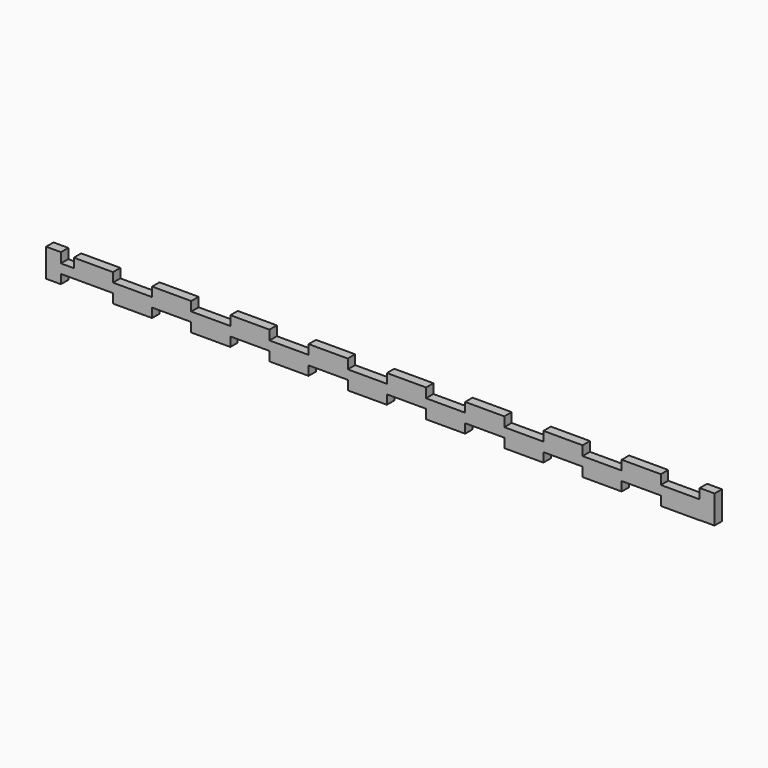
from build123d import *

# Parameters (mm, degrees)
F0_W     = 12.7
F0_H     = 3.0875
F0_H_2   = 3
F0_H_3   = 2.9125
F0_H_4   = 0.0875
F0_W_2   = 4.8
F0_H_5   = 2.9624759726
F0_W_3   = 4.2
F0_H_6   = 3.2125240274
F0_W_4   = 4.716
F0_W_5   = 0.0767822428
F0_H_7   = 2.9324562186
F1_DEPTH = 3


with BuildPart() as f1:
    # F0 (on Front) → F1 (new body)
    with BuildSketch(Plane.XZ):
        with Locations((84.692, 3.04375)):
            Rectangle(F0_W, F0_H)
        with Locations((33.892, 3.04375)):
            Rectangle(F0_W, F0_H)
        with Locations((-16.908, 3.04375)):
            Rectangle(F0_W, F0_H)
        with Locations((-42.308, 3.04375)):
            Rectangle(F0_W, F0_H)
        with Locations((-67.708, 3)):
            Rectangle(F0_W, F0_H_2)
        with Locations((59.292, 3.04375)):
            Rectangle(F0_W, F0_H)
        with Locations((-93.108, 0)):
            Rectangle(F0_W, F0_H_2)
        with Locations((-93.108, 3)):
            Rectangle(F0_W, F0_H_2)
        with Locations((84.692, 0.04375)):
            Rectangle(F0_W, F0_H_3)
        with Locations((-55.008, -3)):
            Rectangle(F0_W, F0_H_2)
        with Locations((-42.308, -1.45625)):
            Rectangle(F0_W, F0_H_4)
        with Locations((-80.408, 0)):
            Rectangle(F0_W, F0_H_2)
        with Locations((46.592, -3)):
            Rectangle(F0_W, F0_H_2)
        with Locations((-80.408, -3)):
            Rectangle(F0_W, F0_H_2)
        Polygon((52.942, 1.5), (40.242, 1.5), (40.242, -1.4125), (40.242, -1.5), (52.942, -1.5), (52.942, -1.4125), align=None)
        with Locations((-42.308, 0.04375)):
            Rectangle(F0_W, F0_H_3)
        with Locations((59.292, 0.04375)):
            Rectangle(F0_W, F0_H_3)
        with Locations((-16.908, -1.45625)):
            Rectangle(F0_W, F0_H_4)
        Polygon((-48.658, 1.5), (-61.358, 1.5), (-61.358, -1.5), (-48.658, -1.5), (-48.658, -1.4125), align=None)
        Polygon((78.342, 1.5), (65.642, 1.5), (65.642, -1.4125), (65.642, -1.5), (78.342, -1.5), (78.342, -1.4125), align=None)
        Polygon((103.6652177572, 1.5), (91.042, 1.5), (91.042, -1.4125), (91.042, -1.5), (103.6652177572, -1.5), align=None)
        with Locations((71.992, -3)):
            Rectangle(F0_W, F0_H_2)
        Polygon((103.6652177572, -1.5), (91.042, -1.5), (91.042, -4.5), (103.742, -4.5), (103.742, -4.4324562186), (103.6652177572, -4.4324562186), align=None)
        with Locations((21.192, -3)):
            Rectangle(F0_W, F0_H_2)
        with Locations((8.492, -1.45625)):
            Rectangle(F0_W, F0_H_4)
        with Locations((84.692, -1.45625)):
            Rectangle(F0_W, F0_H_4)
        Polygon((27.542, 1.5), (14.842, 1.5), (14.842, -1.4125), (14.842, -1.5), (27.542, -1.5), (27.542, -1.4125), align=None)
        with Locations((33.892, 0.04375)):
            Rectangle(F0_W, F0_H_3)
        with Locations((8.492, 0.04375)):
            Rectangle(F0_W, F0_H_3)
        Polygon((-23.258, 1.5), (-35.958, 1.5), (-35.958, -1.4125), (-35.958, -1.5), (-23.258, -1.5), (-23.258, -1.4125), align=None)
        with Locations((59.292, -1.45625)):
            Rectangle(F0_W, F0_H_4)
        with Locations((-29.608, -3)):
            Rectangle(F0_W, F0_H_2)
        with Locations((8.492, 3.04375)):
            Rectangle(F0_W, F0_H)
        with Locations((-16.908, 0.04375)):
            Rectangle(F0_W, F0_H_3)
        with Locations((-67.708, 0)):
            Rectangle(F0_W, F0_H_2)
        with Locations((33.892, -1.45625)):
            Rectangle(F0_W, F0_H_4)
        with Locations((-106.058, 0)):
            Rectangle(F0_W_2, F0_H_2)
        with Locations((-106.058, -2.9812379863)):
            Rectangle(F0_W_2, F0_H_5)
        with Locations((-4.208, -3)):
            Rectangle(F0_W, F0_H_2)
        with Locations((-101.558, 0)):
            Rectangle(F0_W_3, F0_H_2)
        Polygon((2.142, 1.5), (-10.558, 1.5), (-10.558, -1.4125), (-10.558, -1.5), (2.142, -1.5), (2.142, -1.4125), align=None)
        with Locations((-106.058, 3.1062620137)):
            Rectangle(F0_W_2, F0_H_6)
        Polygon((103.6652177572, 4.7425437814), (103.6652177572, 1.5), (103.742, 1.5), (108.458, 1.5), (108.458, -1.5), (103.742, -1.5), (103.742, -4.4324562186), (108.4652177572, -4.4324562186), (108.4652177572, 4.7425437814), align=None)
        with Locations((106.1, 0)):
            Rectangle(F0_W_4, F0_H_2)
        with Locations((103.7036088786, 0)):
            Rectangle(F0_W_5, F0_H_2)
        with Locations((103.7036088786, -2.9662281093)):
            Rectangle(F0_W_5, F0_H_7)
    extrude(amount=F1_DEPTH)


solid = f1.part
